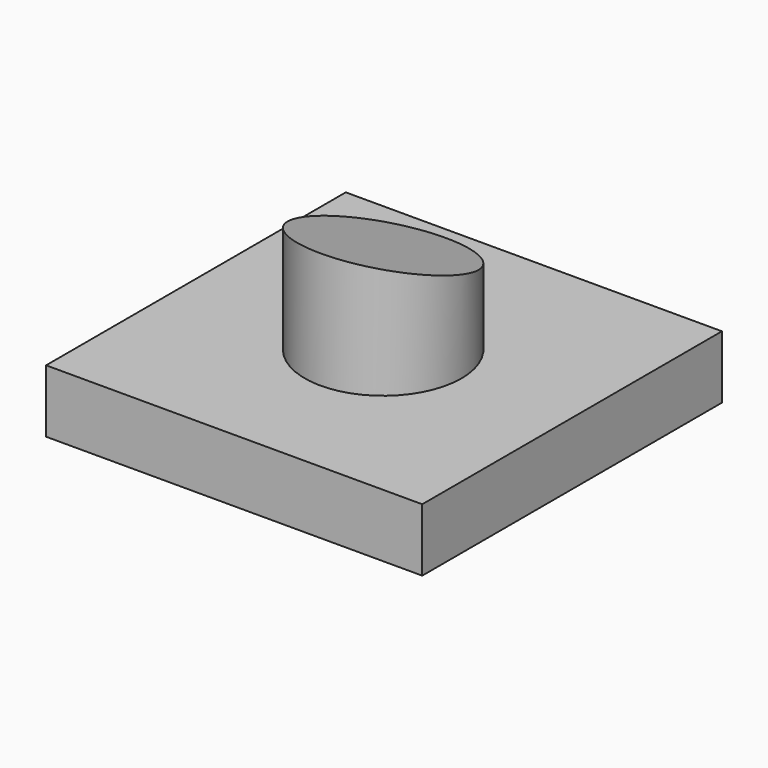
from build123d import *

# Parameters (mm, degrees)
F0_W     = 151.962713
F0_H     = 151.340999
F1_DEPTH = 25.4
F2_R     = 31.640714
F3_DEPTH = 50.8
F5_DEPTH = 74.422


with BuildPart() as f1:
    # F0 (on Top) → F1 (new body)
    with BuildSketch(Plane.XY):
        with Locations((-0.302956, 0.808675)):
            Rectangle(F0_W, F0_H)
    extrude(amount=F1_DEPTH)

    # F2 (on face) → F3 (join)
    with BuildSketch(Plane.XY.offset(25.4)):
        Circle(F2_R)
    extrude(amount=F3_DEPTH)

    # F4 (on Right) → F5 (cut, symmetric)
    with BuildSketch(Plane.YZ):
        Polygon((52.56303, 76.373637), (-43.877404, 76.373637), (52.56303, 45.524683), align=None)
    extrude(amount=F5_DEPTH, both=True, mode=Mode.SUBTRACT)


solid = f1.part
